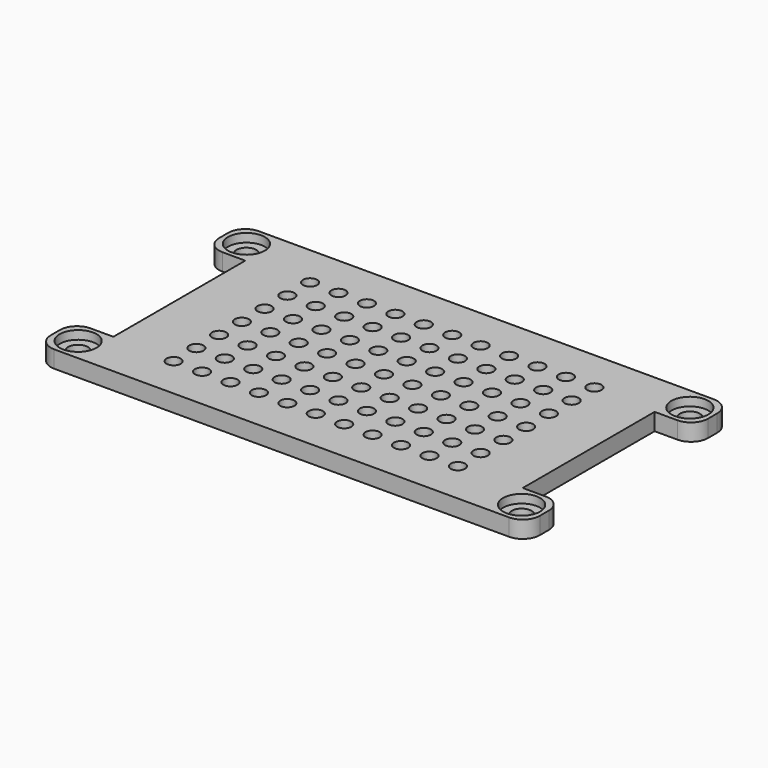
from build123d import *

# Parameters (mm, degrees)
F0_R     = 1.75
F1_DEPTH = 3
F2_R     = 3.25
F3_DEPTH = 1.5
F4_R     = 3
F5_R     = 1.25
F6_DEPTH = 3.001


with BuildPart() as f1:
    # F0 (on Top) → F1 (new body)
    with BuildSketch(Plane.XY):
        Polygon((43, 22.5), (0, 22.5), (-43, 22.5), (-43, 14.5), (-36, 14.5), (-36, 0), (-36, -14.5), (-43, -14.5), (-43, -22.5), (0, -22.5), (43, -22.5), (43, -14.5), (36, -14.5), (36, 0), (36, 14.5), (43, 14.5), align=None)
        with Locations((-39, -18.5)):
            Circle(F0_R, mode=Mode.SUBTRACT)
        with Locations((39, -18.5)):
            Circle(F0_R, mode=Mode.SUBTRACT)
        with Locations((-39, 18.5)):
            Circle(F0_R, mode=Mode.SUBTRACT)
        with Locations((39, 18.5)):
            Circle(F0_R, mode=Mode.SUBTRACT)
    extrude(amount=F1_DEPTH)

    # F2 (on face) → F3 (cut)
    with BuildSketch(Plane.XY.offset(3)):
        with Locations((-39, 18.5)):
            Circle(F2_R)
        with Locations((-39, -18.5)):
            Circle(F2_R)
        with Locations((39, 18.5)):
            Circle(F2_R)
        with Locations((39, -18.5)):
            Circle(F2_R)
    extrude(amount=-F3_DEPTH, mode=Mode.SUBTRACT)

    # F4
    f4_edges = [f1.edges().sort_by_distance(p)[0] for p in [
        (43, -22.5, 1.5),
        (43, -14.5, 1.5),
        (43, 14.5, 1.5),
        (43, 22.5, 1.5),
        (-43, -14.5, 1.5),
        (-43, -22.5, 1.5),
        (-43, 14.5, 1.5),
        (-43, 22.5, 1.5),
    ]]
    fillet(f4_edges, radius=F4_R)

    # F5 (on face) → F6 (cut, through all)
    with BuildSketch(Plane.XY.offset(3)):
        with Locations((-25, 15)):
            Circle(F5_R)
        with Locations((-20, 15)):
            Circle(F5_R)
        with Locations((-15, 15)):
            Circle(F5_R)
        with Locations((-10, 15)):
            Circle(F5_R)
        with Locations((-5, 15)):
            Circle(F5_R)
        with Locations((0, 15)):
            Circle(F5_R)
        with Locations((5, 15)):
            Circle(F5_R)
        with Locations((10, 15)):
            Circle(F5_R)
        with Locations((15, 15)):
            Circle(F5_R)
        with Locations((20, 15)):
            Circle(F5_R)
        with Locations((25, 15)):
            Circle(F5_R)
        with Locations((-25, 10)):
            Circle(F5_R)
        with Locations((-20, 10)):
            Circle(F5_R)
        with Locations((-15, 10)):
            Circle(F5_R)
        with Locations((-10, 10)):
            Circle(F5_R)
        with Locations((-5, 10)):
            Circle(F5_R)
        with Locations((0, 10)):
            Circle(F5_R)
        with Locations((5, 10)):
            Circle(F5_R)
        with Locations((10, 10)):
            Circle(F5_R)
        with Locations((15, 10)):
            Circle(F5_R)
        with Locations((20, 10)):
            Circle(F5_R)
        with Locations((25, 10)):
            Circle(F5_R)
        with Locations((-25, 5)):
            Circle(F5_R)
        with Locations((-20, 5)):
            Circle(F5_R)
        with Locations((-15, 5)):
            Circle(F5_R)
        with Locations((-10, 5)):
            Circle(F5_R)
        with Locations((-5, 5)):
            Circle(F5_R)
        with Locations((0, 5)):
            Circle(F5_R)
        with Locations((5, 5)):
            Circle(F5_R)
        with Locations((10, 5)):
            Circle(F5_R)
        with Locations((15, 5)):
            Circle(F5_R)
        with Locations((20, 5)):
            Circle(F5_R)
        with Locations((25, 5)):
            Circle(F5_R)
        with Locations((-25, 0)):
            Circle(F5_R)
        with Locations((-20, 0)):
            Circle(F5_R)
        with Locations((-15, 0)):
            Circle(F5_R)
        with Locations((-10, 0)):
            Circle(F5_R)
        with Locations((-5, 0)):
            Circle(F5_R)
        Circle(F5_R)
        with Locations((5, 0)):
            Circle(F5_R)
        with Locations((10, 0)):
            Circle(F5_R)
        with Locations((15, 0)):
            Circle(F5_R)
        with Locations((20, 0)):
            Circle(F5_R)
        with Locations((25, 0)):
            Circle(F5_R)
        with Locations((-25, -5)):
            Circle(F5_R)
        with Locations((-20, -5)):
            Circle(F5_R)
        with Locations((-15, -5)):
            Circle(F5_R)
        with Locations((-10, -5)):
            Circle(F5_R)
        with Locations((-5, -5)):
            Circle(F5_R)
        with Locations((0, -5)):
            Circle(F5_R)
        with Locations((5, -5)):
            Circle(F5_R)
        with Locations((10, -5)):
            Circle(F5_R)
        with Locations((15, -5)):
            Circle(F5_R)
        with Locations((20, -5)):
            Circle(F5_R)
        with Locations((25, -5)):
            Circle(F5_R)
        with Locations((-25, -10)):
            Circle(F5_R)
        with Locations((-20, -10)):
            Circle(F5_R)
        with Locations((-15, -10)):
            Circle(F5_R)
        with Locations((-10, -10)):
            Circle(F5_R)
        with Locations((-5, -10)):
            Circle(F5_R)
        with Locations((0, -10)):
            Circle(F5_R)
        with Locations((5, -10)):
            Circle(F5_R)
        with Locations((10, -10)):
            Circle(F5_R)
        with Locations((15, -10)):
            Circle(F5_R)
        with Locations((20, -10)):
            Circle(F5_R)
        with Locations((25, -10)):
            Circle(F5_R)
        with Locations((-25, -15)):
            Circle(F5_R)
        with Locations((-20, -15)):
            Circle(F5_R)
        with Locations((-15, -15)):
            Circle(F5_R)
        with Locations((-10, -15)):
            Circle(F5_R)
        with Locations((-5, -15)):
            Circle(F5_R)
        with Locations((0, -15)):
            Circle(F5_R)
        with Locations((5, -15)):
            Circle(F5_R)
        with Locations((10, -15)):
            Circle(F5_R)
        with Locations((15, -15)):
            Circle(F5_R)
        with Locations((20, -15)):
            Circle(F5_R)
        with Locations((25, -15)):
            Circle(F5_R)
    extrude(amount=-F6_DEPTH, mode=Mode.SUBTRACT)


solid = f1.part
